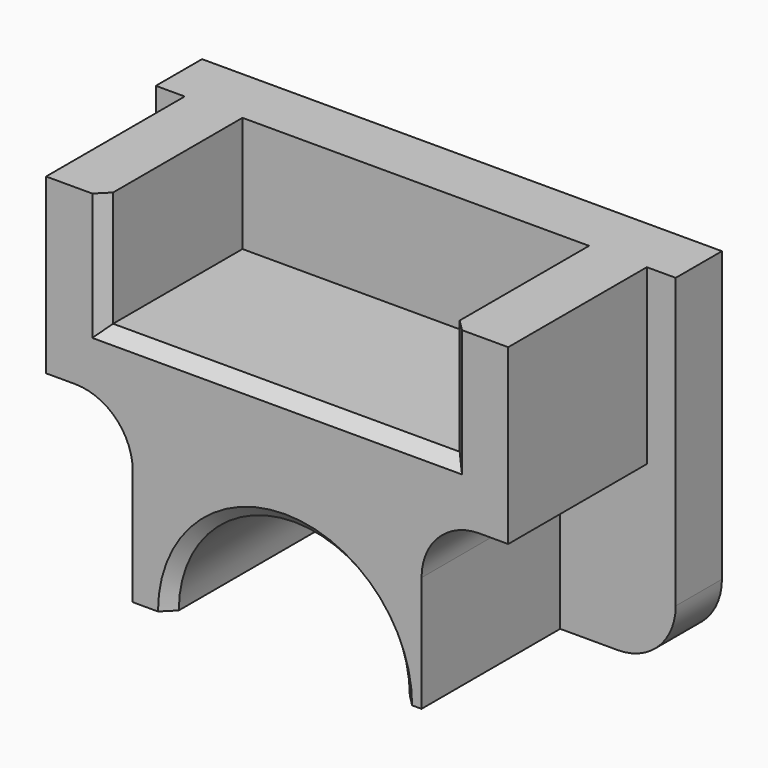
from build123d import *

# Parameters (mm, degrees)
F0_W     = 57.15
F0_H     = 38.1
F1_DEPTH = 6.35
F3_DEPTH = 19.05
F5_DEPTH = 25.401
F6_R     = 6.35
F7_SIZE  = 1.27


with BuildPart() as f1:
    # F0 (on Front) → F1 (new body)
    with BuildSketch(Plane.XZ):
        Rectangle(F0_W, F0_H)
    extrude(amount=-F1_DEPTH)

    # F2 (on face) → F3 (join)
    with BuildSketch(Plane.XZ):
        Polygon((-19.05, 19.05), (-25.4, 19.05), (-25.4, 0), (-15.875, 0), (-15.875, -19.05), (15.875, -19.05), (15.875, 0), (25.4, 0), (25.4, 19.05), (19.05, 19.05), (19.05, 6.35), (-19.05, 6.35), align=None)
    extrude(amount=F3_DEPTH)

    # F4 (on face) → F5 (cut, through all)
    with BuildSketch(Plane.XZ.offset(19.05)):
        with BuildLine():
            Line((-11.828537, -19.05), (13.571463, -19.05))
            ThreePointArc((13.571463, -19.05), (0.871463, -6.35), (-11.828537, -19.05))
        make_face()
    extrude(amount=-F5_DEPTH, mode=Mode.SUBTRACT)

    # F6
    f6_edges = [f1.edges().sort_by_distance(p)[0] for p in [
        (-28.575, 3.175, -19.05),
        (28.575, 3.175, -19.05),
        (15.875, -9.525, 0),
        (-15.875, -9.525, 0),
    ]]
    fillet(f6_edges, radius=F6_R)

    # F7
    f7_edges = [f1.edges().sort_by_distance(p)[0] for p in [
        (0.871463, -19.05, -6.35),
        (0, -19.05, 6.35),
        (-19.05, -19.05, 12.7),
        (19.05, -19.05, 12.7),
    ]]
    chamfer(f7_edges, length=F7_SIZE)


solid = f1.part
